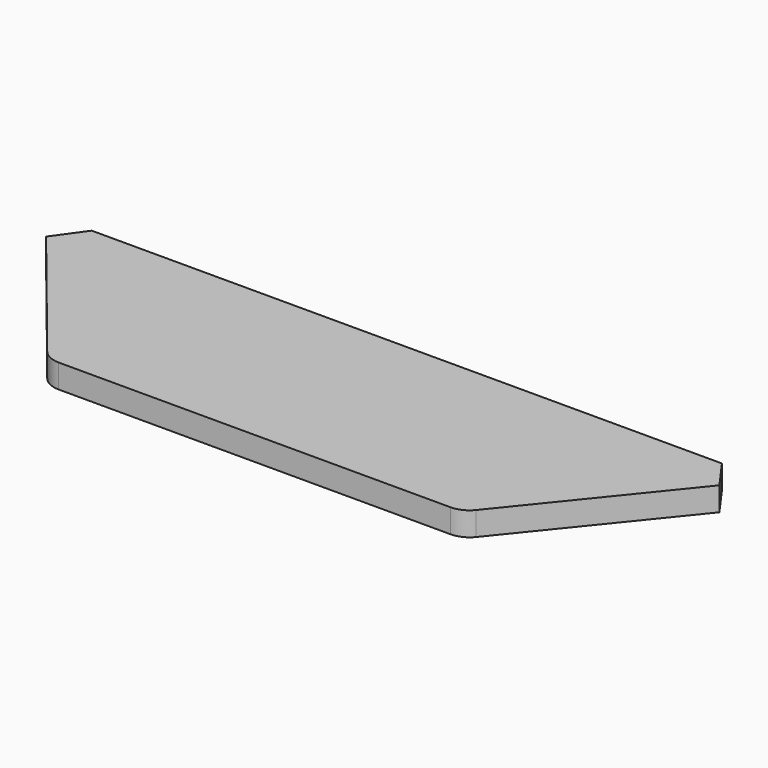
from build123d import *

# Parameters (mm, degrees)
F1_DEPTH = 2


with BuildPart() as f1:
    # F0 (on Top) → F1 (new body)
    with BuildSketch(Plane.XY):
        with BuildLine():
            Line((-29.571001, 10.968021), (-31.38225, 8.436014))
            Line((-31.38225, 8.436014), (-21.104635, -4.288653))
            ThreePointArc((-21.104635, -4.288653), (-20.410916, -4.836604), (-19.548753, -5.031979))
            Line((-19.548753, -5.031979), (13.406751, -5.031979))
            ThreePointArc((13.406751, -5.031979), (14.268915, -4.836604), (14.962634, -4.288653))
            Line((14.962634, -4.288653), (25.240249, 8.436014))
            Line((25.240249, 8.436014), (23.428999, 10.968021))
            Line((23.428999, 10.968021), (-29.571001, 10.968021))
        make_face()
    extrude(amount=F1_DEPTH)


solid = f1.part
